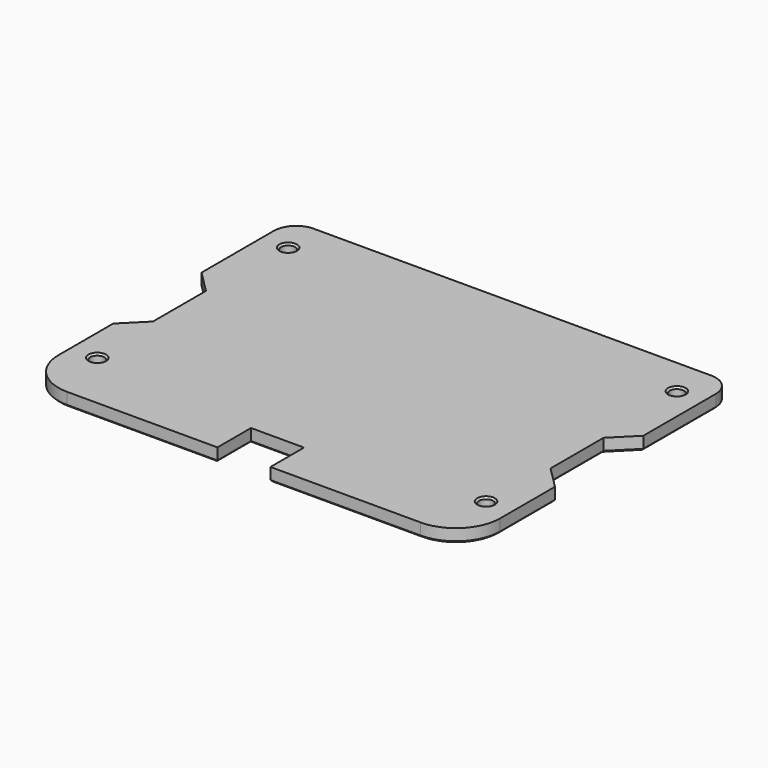
from build123d import *

# Parameters (mm, degrees)
BOX039_W          = 10
BOX039_H          = 25
BOX039_DEPTH      = 3
BOX040_W          = 10
BOX040_H          = 25
BOX040_DEPTH      = 3
CHAMFER041_SIZE   = 5
CYLINDER016_R     = 1.6
CYLINDER016_DEPTH = 10
CYLINDER015_R     = 1.6
CYLINDER015_DEPTH = 10
CYLINDER014_R     = 1.6
CYLINDER014_DEPTH = 10
CYLINDER017_R     = 1.6
CYLINDER017_DEPTH = 10
BOX033_W          = 12
BOX033_H          = 12
BOX033_DEPTH      = 10
BOX034_W          = 100
BOX034_H          = 76
BOX034_DEPTH      = 3
FILLET013_R       = 10
FILLET014_R       = 5
CHAMFER046_SIZE   = 0.4
CHAMFER048_SIZE   = 0.4


with BuildPart() as cube039:
    # Box039 → Box039 (new body)
    with BuildSketch(Plane(origin=(45, -15, 0), x_dir=(1, 0, 0), z_dir=(0, 0, 1))):
        with Locations((5, 12.5)):
            Rectangle(BOX039_W, BOX039_H)
    extrude(amount=BOX039_DEPTH)


with BuildPart() as chamfer041:
    # Box040 → Box040 (new body)
    with BuildSketch(Plane(origin=(-55, -15, 0), x_dir=(1, 0, 0), z_dir=(0, 0, 1))):
        with Locations((5, 12.5)):
            Rectangle(BOX040_W, BOX040_H)
    extrude(amount=BOX040_DEPTH)

    # Fusion002003015: union Cube039
    add(cube039.part)

    # Chamfer041
    chamfer041_edges = [chamfer041.edges().sort_by_distance(p)[0] for p in [
        (-45, -15, 1.5),
        (-45, 10, 1.5),
        (45, -15, 1.5),
        (45, 10, 1.5),
    ]]
    chamfer(chamfer041_edges, length=CHAMFER041_SIZE)


with BuildPart() as cylinder016:
    # Cylinder016 → Cylinder016 (new body)
    with BuildSketch(Plane(origin=(44, 27, 0), x_dir=(1, 0, 0), z_dir=(0, 0, 1))):
        Circle(CYLINDER016_R)
    extrude(amount=CYLINDER016_DEPTH)


with BuildPart() as cylinder015:
    # Cylinder015 → Cylinder015 (new body)
    with BuildSketch(Plane(origin=(44, -27, 0), x_dir=(1, 0, 0), z_dir=(0, 0, 1))):
        Circle(CYLINDER015_R)
    extrude(amount=CYLINDER015_DEPTH)


with BuildPart() as cylinder014:
    # Cylinder014 → Cylinder014 (new body)
    with BuildSketch(Plane(origin=(-44, -27, 0), x_dir=(1, 0, 0), z_dir=(0, 0, 1))):
        Circle(CYLINDER014_R)
    extrude(amount=CYLINDER014_DEPTH)


with BuildPart() as fusion002003012:
    # Cylinder017 → Cylinder017 (new body)
    with BuildSketch(Plane(origin=(-44, 27, 0), x_dir=(1, 0, 0), z_dir=(0, 0, 1))):
        Circle(CYLINDER017_R)
    extrude(amount=CYLINDER017_DEPTH)

    # Fusion002003012: union Cylinder016, Cylinder015, Cylinder014
    add(cylinder016.part)
    add(cylinder015.part)
    add(cylinder014.part)


with BuildPart() as cube033:
    # Box033 → Box033 (new body)
    with BuildSketch(Plane(origin=(-6, -43, 0), x_dir=(1, 0, 0), z_dir=(0, 0, 1))):
        with Locations((6, 6)):
            Rectangle(BOX033_W, BOX033_H)
    extrude(amount=BOX033_DEPTH)


with BuildPart() as obj1:
    # Box034 → Box034 (new body)
    with BuildSketch(Plane(origin=(-50, -40.5, 0), x_dir=(1, 0, 0), z_dir=(0, 0, 1))):
        with Locations((50, 38)):
            Rectangle(BOX034_W, BOX034_H)
    extrude(amount=BOX034_DEPTH)

    # Cut008: cut Cube033
    add(cube033.part, mode=Mode.SUBTRACT)

    # Cut009: cut Fusion002003012
    add(fusion002003012.part, mode=Mode.SUBTRACT)

    # Cut012: cut Chamfer041
    add(chamfer041.part, mode=Mode.SUBTRACT)

    # Fillet013
    fillet013_edges = [obj1.edges().sort_by_distance(p)[0] for p in [
        (-50, -40.5, 1.5),
        (50, -40.5, 1.5),
    ]]
    fillet(fillet013_edges, radius=FILLET013_R)

    # Fillet014
    fillet014_edges = [obj1.edges().sort_by_distance(p)[0] for p in [
        (50, 35.5, 1.5),
        (-50, 35.5, 1.5),
    ]]
    fillet(fillet014_edges, radius=FILLET014_R)

    # Chamfer046
    chamfer046_edges = [obj1.edges().sort_by_distance(p)[0] for p in [
        (50, 20.25, 0),
        (48.535534, 34.035534, 0),
        (47.5, 7.5, 0),
        (0, 35.5, 0),
        (45, -2.5, 0),
        (-48.535534, 34.035534, 0),
        (47.5, -12.5, 0),
        (-50, 20.25, 0),
        (50, -22.75, 0),
        (-47.5, 7.5, 0),
        (47.071068, -37.571068, 0),
        (-45, -2.5, 0),
        (23, -40.5, 0),
        (-47.5, -12.5, 0),
        (6, -35.75, 0),
        (-50, -22.75, 0),
        (0, -31, 0),
        (-47.071068, -37.571068, 0),
        (-6, -35.75, 0),
        (-23, -40.5, 0),
        (-45.6, -27, 0),
        (42.4, -27, 0),
        (-45.6, 27, 0),
        (42.4, 27, 0),
    ]]
    chamfer(chamfer046_edges, length=CHAMFER046_SIZE)

    # Chamfer048
    chamfer048_edges = [obj1.edges().sort_by_distance(p)[0] for p in [
        (-45.6, -27, 3),
        (42.4, -27, 3),
        (-45.6, 27, 3),
        (42.4, 27, 3),
    ]]
    chamfer(chamfer048_edges, length=CHAMFER048_SIZE)


solid = obj1.part
